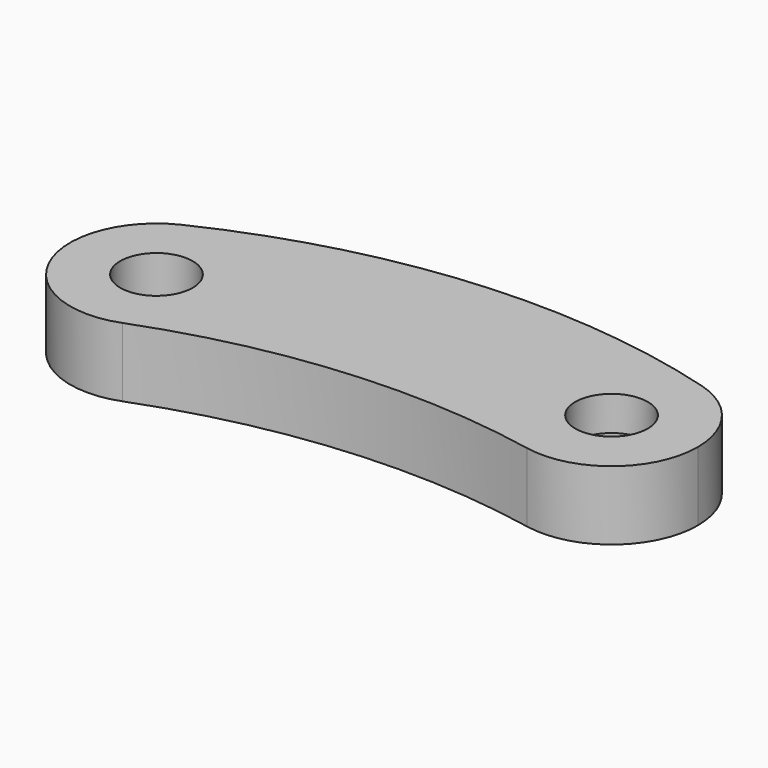
from build123d import *

# Parameters (mm, degrees)
F0_R     = 2.1
F1_DEPTH = 4
F2_R     = 3.6
F3_DEPTH = 2


with BuildPart() as f1:
    # F0 (on Top) → F1 (new body)
    with BuildSketch(Plane.XY):
        with BuildLine():
            ThreePointArc((1.777867, -4.673242), (4.11639, -2.838192), (5, 0))
            ThreePointArc((5, 0), (2.665018, 4.230565), (-2.159072, 4.509812))
            ThreePointArc((-2.159072, 4.509812), (-4.595482, -1.970165), (1.777867, -4.673242))
        make_face()
        Circle(F0_R, mode=Mode.SUBTRACT)
        with BuildLine():
            ThreePointArc((-2.159072, 4.509812), (2.665018, 4.230565), (5, 0))
            ThreePointArc((5, 0), (4.11639, -2.838192), (1.777867, -4.673242))
            ThreePointArc((1.777867, -4.673242), (12.629592, -2.201493), (23.742311, -2.815464))
            ThreePointArc((23.742311, -2.815464), (19.848893, 3.260316), (26.080928, 6.898384))
            ThreePointArc((26.080928, 6.898384), (11.742295, 8.288996), (-2.159072, 4.509812))
        make_face()
        with BuildLine():
            ThreePointArc((29.71, 2.09), (28.700905, 5.102089), (26.080928, 6.898384))
            ThreePointArc((26.080928, 6.898384), (19.848893, 3.260316), (23.742311, -2.815464))
            ThreePointArc((23.742311, -2.815464), (27.885024, -1.772541), (29.71, 2.09))
        make_face()
        with Locations((24.71, 2.09)):
            Circle(F0_R, mode=Mode.SUBTRACT)
    extrude(amount=F1_DEPTH)

    # F2 (on face) → F3 (cut)
    with BuildSketch(Plane(origin=(0, 0, 0), x_dir=(1, 0, 0), z_dir=(0, 0, -1))):
        with Locations((24.71, -2.09)):
            Circle(F2_R)
    extrude(amount=-F3_DEPTH, mode=Mode.SUBTRACT)


solid = f1.part
